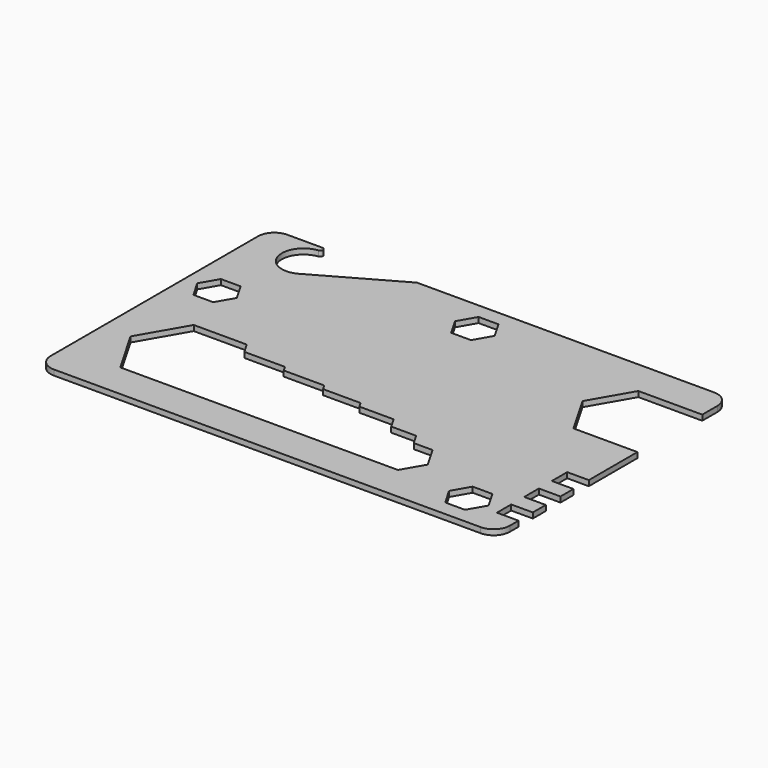
from build123d import *

# Parameters (mm, degrees)
F0_W      = 85
F0_H      = 54
F1_DEPTH  = 1
F2_R      = 3
F4_DEPTH  = 1.001
F5_W      = 4
F5_H      = 3.55
F5_H_2    = 3.4
F5_H_3    = 3.3
F6_DEPTH  = 1.001
F8_DEPTH  = 1.001
F10_DEPTH = 1.001
F11_R     = 0.5
F13_DEPTH = 1.001


with BuildPart() as f1:
    # F0 (on Top) → F1 (new body)
    with BuildSketch(Plane.XY):
        Rectangle(F0_W, F0_H)
    extrude(amount=F1_DEPTH)

    # F2
    f2_edges = [f1.edges().sort_by_distance(p)[0] for p in [
        (-42.5, -27, 0.5),
        (-42.5, 27, 0.5),
        (42.5, -27, 0.5),
        (42.5, 27, 0.5),
    ]]
    fillet(f2_edges, radius=F2_R)

    # F3 (on face) → F4 (cut, through all)
    with BuildSketch(Plane.XY.offset(1)):
        Polygon((-22.5925227119, -3.5), (-32.4074772881, -3.5), (-37.3149545762, -12), (-32.4074772881, -20.5), (-22.5925227119, -20.5), (-13.932268674, -20.5), (-5.8493649054, -20.5), (1.6561885941, -20.5), (8.5843918244, -20.5), (14.3578945162, -20.5), (18.9766966698, -20.5), (21.2860977465, -16.5), (18.9766966698, -12.5), (15.5125950546, -12.5), (14.3578945162, -10.5), (9.7390923627, -10.5), (8.5843918244, -8.5), (2.2335388633, -8.5), (1.6561885941, -7.5), (-5.2720146362, -7.5), (-5.8493649054, -6.5), (-13.3549184049, -6.5), (-13.932268674, -5.5), (-21.4378221735, -5.5), align=None)
    extrude(amount=-F4_DEPTH, mode=Mode.SUBTRACT)

    # F5 (on face) → F6 (cut, through all)
    with BuildSketch(Plane.XY.offset(1)):
        with Locations((40.5, -7.525)):
            Rectangle(F5_W, F5_H)
        with Locations((40.5, -14)):
            Rectangle(F5_W, F5_H_2)
        with Locations((40.5, -20.35)):
            Rectangle(F5_W, F5_H_3)
    extrude(amount=-F6_DEPTH, mode=Mode.SUBTRACT)

    # F7 (on face) → F8 (cut, through all)
    with BuildSketch(Plane.XY.offset(1)):
        Polygon((42.5, 20.5), (30.6698729811, 20.5), (26.3397459622, 13), (30.6698729811, 5.5), (42.5, 5.5), align=None)
    extrude(amount=-F8_DEPTH, mode=Mode.SUBTRACT)

    # F9 (on face) → F10 (cut, through all)
    with BuildSketch(Plane.XY.offset(1)):
        with BuildLine():
            Line((-32.5, 27), (-32.5, 26))
            ThreePointArc((-32.5, 26), (-36.3687561178, 20.9837686773), (-30.5342244266, 18.5163630506))
            Line((-30.5342244266, 18.5163630506), (-15.5, 27))
            Line((-15.5, 27), (-32.5, 27))
        make_face()
    extrude(amount=-F10_DEPTH, mode=Mode.SUBTRACT)

    # F11
    f11_edges = [f1.edges().sort_by_distance(p)[0] for p in [
        (-32.5, 26, 0.5),
        (-32.5, 27, 0.5),
    ]]
    fillet(f11_edges, radius=F11_R)

    # F12 (on face) → F13 (cut, through all)
    with BuildSketch(Plane.XY.offset(1)):
        Polygon((1.8330871047, 24.175), (-1.8330871047, 24.175), (-3.6661742094, 21), (-1.8330871047, 17.825), (1.8330871047, 17.825), (3.6661742094, 21), align=None)
        Polygon((34.3330871047, -17.825), (30.6669128953, -17.825), (28.8338257906, -21), (30.6669128953, -24.175), (34.3330871047, -24.175), (36.1661742094, -21), align=None)
        Polygon((-34.6669128953, 10.175), (-38.3330871047, 10.175), (-40.1661742094, 7), (-38.3330871047, 3.825), (-34.6669128953, 3.825), (-32.8338257906, 7), align=None)
    extrude(amount=-F13_DEPTH, mode=Mode.SUBTRACT)


solid = f1.part
